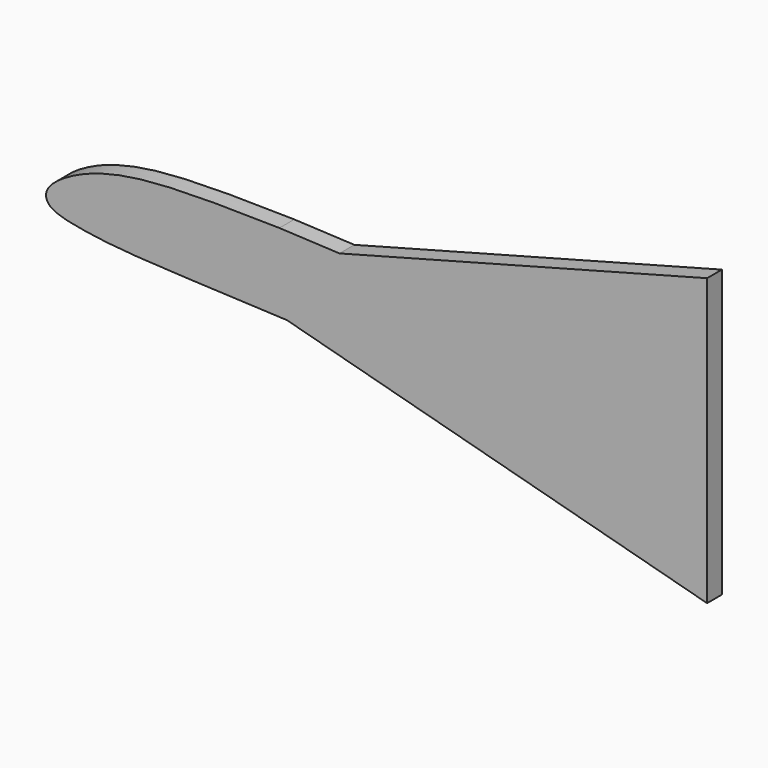
from build123d import *

# Parameters (mm, degrees)
PAD_DEPTH = 4.5


with BuildPart() as part:
    # Sketch → Pad (new body)
    with BuildSketch(Plane.XZ):
        with BuildLine():
            Line((0, 34.630756), (0, -34.630756))
            Line((0, -34.630756), (-101.690887, -7.382765))
            add(Edge.make_bspline(
                [(-103.524005, 11.662305), (-126.796, 12.2593), (-143.268677, 10.877765), (-153.364594, 6.945673), (-158.997, 3.22612), (-160.484863, 0.250483), (-159.103333, -2.300063), (-154.002, -3.78788), (-145.607, -5.06316), (-136.361, -5.91334), (-101.690887, -7.382765)],
                knots=[0, 0, 0, 0, 0.125, 0.25, 0.375, 0.5, 0.625, 0.75, 0.875, 1, 1, 1, 1], degree=3))
            add(Edge.make_bspline(
                [(-103.524005, 11.662305), (-88.98761, 10.976098)],
                knots=[0, 0, 1, 1], degree=1))
            Line((-88.98761, 10.976098), (0, 34.630756))
        make_face()
    extrude(amount=PAD_DEPTH)


with BuildPart() as part_1:
    # Body placement: moved
    add(part.part.moved(Location((250, 250, 0))))


with BuildPart() as part_2:
    # Body001 placement: moved
    add(part_1.part.moved(Location((0, -452.7, 0))))


solid = part_2.part
